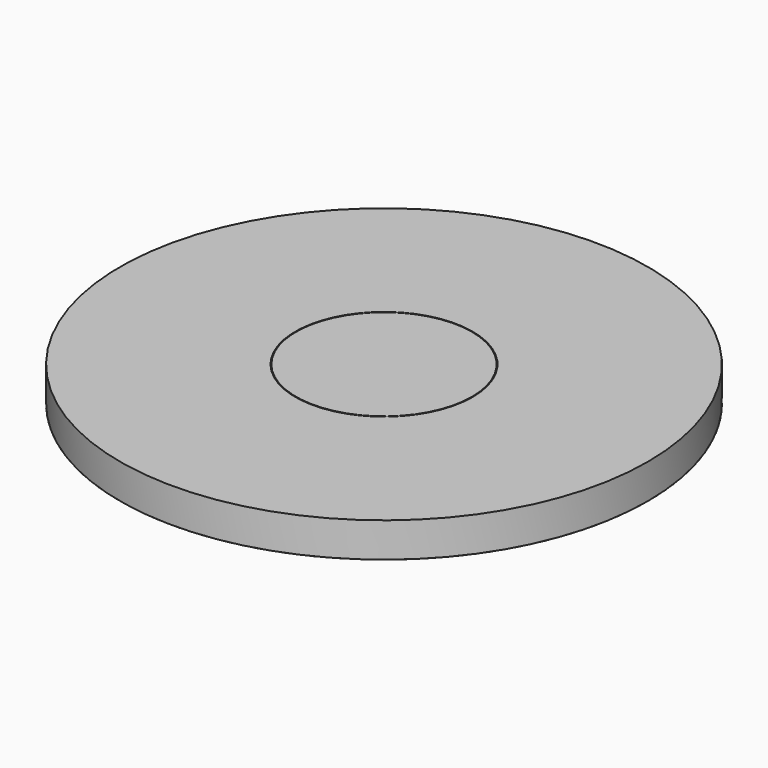
from build123d import *

# Parameters (mm, degrees)
F0_R     = 19.05
F1_DEPTH = 2.5
F2_R     = 6.4
F2_R_2   = 6.35
F3_DEPTH = 0.5


with BuildPart() as f1:
    # F0 (on Top) → F1 (new body)
    with BuildSketch(Plane.XY):
        Circle(F0_R)
    extrude(amount=F1_DEPTH)

    # F2 (on face) → F3 (cut)
    with BuildSketch(Plane.XY.offset(2.5)):
        Circle(F2_R)
        Circle(F2_R_2, mode=Mode.SUBTRACT)
    extrude(amount=-F3_DEPTH, mode=Mode.SUBTRACT)


with BuildPart() as f5:
    # F4 (on Front) → F5 (revolve)
    with BuildSketch(Plane.XZ):
        with BuildLine():
            Line((0, 0), (-19.05, 0))
            ThreePointArc((-19.05, 0), (-18.124981, -0.135675), (-17.197082, -0.25))
            Line((-17.197082, -0.25), (0, -0.25))
            Line((0, -0.25), (0, 0))
        make_face()
    revolve(axis=Axis((0, 0, -0.125), (0, 0, -1)))


solid = Compound([f1.part, f5.part])
